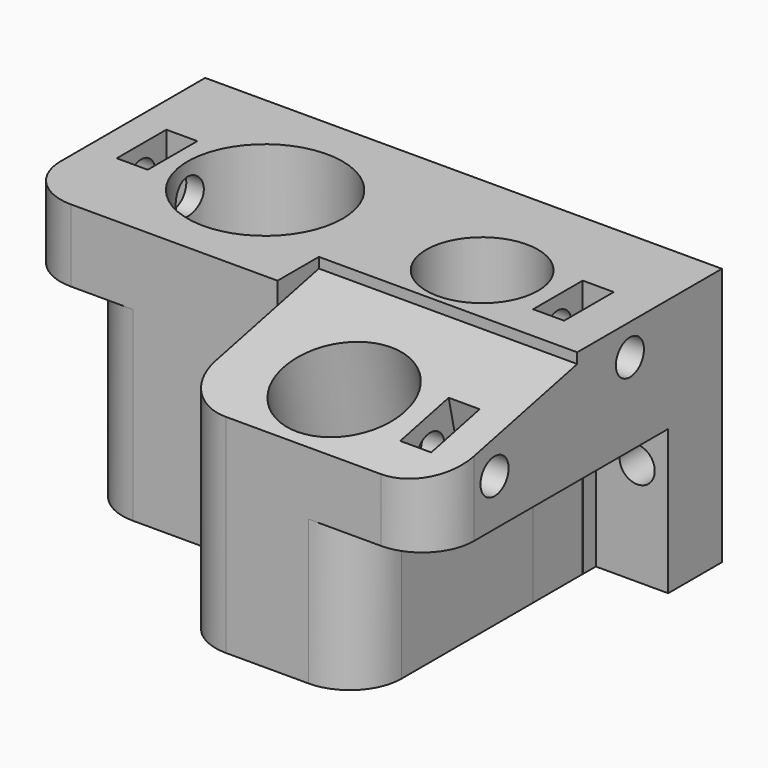
from build123d import *

# Parameters (mm, degrees)
SKETCH_W        = 50
SKETCH_H        = 35
PAD_DEPTH       = 25
SKETCH001_R     = 7.5
SKETCH001_R_2   = 5.4
POCKET_DEPTH    = 25.001
SKETCH002_W     = 8.593381
SKETCH002_H     = 17.161813
SKETCH002_W_2   = 6.577515
SKETCH002_H_2   = 19.926782
POCKET001_DEPTH = 28.5
SKETCH003_W     = 3
SKETCH003_H     = 6
SKETCH003_W_2   = 26
SKETCH003_H_2   = 13.234049
POCKET002_DEPTH = 25.001
SKETCH004_R     = 1.7
POCKET003_DEPTH = 15
SKETCH005_R     = 1.7
POCKET004_DEPTH = 15
SKETCH006_R     = 1.7
POCKET005_DEPTH = 35.001
POCKET006_DEPTH = 25
SKETCH008_R     = 5.85
SKETCH008_W     = 3
SKETCH008_H     = 6
POCKET007_DEPTH = 27.225773
FILLET_R        = 5
FILLET001_R     = 5
FILLET002_R     = 5
FILLET003_R     = 5
FILLET004_R     = 5


with BuildPart() as part:
    # Sketch → Pad (new body)
    with BuildSketch(Plane.XY):
        Rectangle(SKETCH_W, SKETCH_H)
    extrude(amount=PAD_DEPTH)

    # Sketch001 → Pocket (cut, through all)
    with BuildSketch(Plane.XY.offset(25)):
        with Locations((-10, 6)):
            Circle(SKETCH001_R)
        with Locations((11, 6)):
            Circle(SKETCH001_R_2)
    extrude(amount=-POCKET_DEPTH, mode=Mode.SUBTRACT)

    # Sketch002 → Pocket001 (cut)
    with BuildSketch(Plane.XZ.offset(17.5)):
        with Locations((22.29669, 5.419093)):
            Rectangle(SKETCH002_W, SKETCH002_H)
        with Locations((-22.288757, 8.036609)):
            Rectangle(SKETCH002_W_2, SKETCH002_H_2)
    extrude(amount=-POCKET001_DEPTH, mode=Mode.SUBTRACT)

    # Sketch003 → Pocket002 (cut, through all)
    with BuildSketch(Plane.XY.offset(25)):
        with Locations((-20.5, 6.050918)):
            Rectangle(SKETCH003_W, SKETCH003_H)
        with Locations((19.495363, 6.418772)):
            Rectangle(SKETCH003_W, SKETCH003_H)
        with Locations((-13, -11.617024)):
            Rectangle(SKETCH003_W_2, SKETCH003_H_2)
    extrude(amount=-POCKET002_DEPTH, mode=Mode.SUBTRACT)

    # Sketch004 → Pocket003 (cut)
    with BuildSketch(Plane.YZ.offset(25)):
        with Locations((6.370928, 21.985187)):
            Circle(SKETCH004_R)
        with Locations((-10, 18.509357)):
            Circle(SKETCH004_R)
    extrude(amount=-POCKET003_DEPTH, mode=Mode.SUBTRACT)

    # Sketch005 → Pocket004 (cut)
    with BuildSketch(Plane(origin=(-25, 0, 0), x_dir=(0, -1, 0), z_dir=(-1, 0, 0))):
        with Locations((-6.013377, 22.008275)):
            Circle(SKETCH005_R)
    extrude(amount=-POCKET004_DEPTH, mode=Mode.SUBTRACT)

    # Sketch006 → Pocket005 (cut, through all)
    with BuildSketch(Plane(origin=(0, 17.5, 0), x_dir=(-1, 0, 0), z_dir=(0, 1, 0))):
        with Locations((-22, 10)):
            Circle(SKETCH006_R)
        with Locations((22, 10)):
            Circle(SKETCH006_R)
    extrude(amount=-POCKET005_DEPTH, mode=Mode.SUBTRACT)

    # Sketch007 → Pocket006 (cut)
    with BuildSketch(Plane.YZ.offset(25)):
        Polygon((0, 25), (0, 24), (-18, 20), (-18, 25), align=None)
    extrude(amount=-POCKET006_DEPTH, mode=Mode.SUBTRACT)

    # Sketch008 → Pocket007 (cut, through all)
    with BuildSketch(Plane(origin=(0, -5.082353, 22.870588), x_dir=(1, 0, 0), z_dir=(0, -0.21693, 0.976187))):
        with Locations((11, -5.750516)):
            Circle(SKETCH008_R)
        with Locations((20.285602, -5.765297)):
            Rectangle(SKETCH008_W, SKETCH008_H)
    extrude(amount=-POCKET007_DEPTH, mode=Mode.SUBTRACT)

    # Fillet
    fillet_edges = [part.edges().sort_by_distance(p)[0] for p in [
        (-25, -5, 21.5),
    ]]
    fillet(fillet_edges, radius=FILLET_R)

    # Fillet001
    fillet001_edges = [part.edges().sort_by_distance(p)[0] for p in [
        (-19, -5, 9),
    ]]
    fillet(fillet001_edges, radius=FILLET001_R)

    # Fillet002
    fillet002_edges = [part.edges().sort_by_distance(p)[0] for p in [
        (0, -17.5, 10.055556),
    ]]
    fillet(fillet002_edges, radius=FILLET002_R)

    # Fillet003
    fillet003_edges = [part.edges().sort_by_distance(p)[0] for p in [
        (18, -17.5, 7),
    ]]
    fillet(fillet003_edges, radius=FILLET003_R)

    # Fillet004
    fillet004_edges = [part.edges().sort_by_distance(p)[0] for p in [
        (25, -17.5, 17.055556),
    ]]
    fillet(fillet004_edges, radius=FILLET004_R)


solid = part.part
